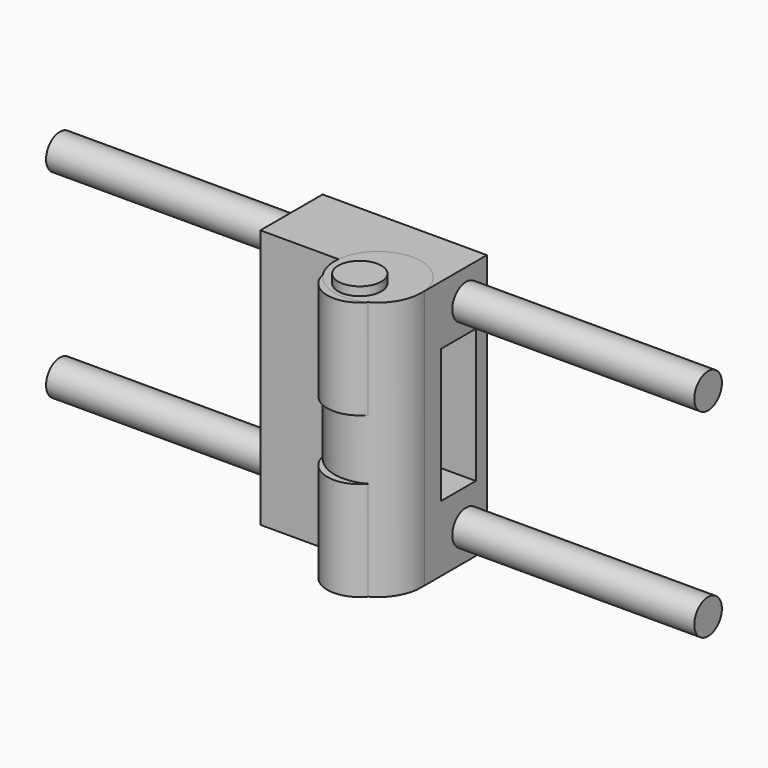
from build123d import *

# Parameters (mm, degrees)
F0_W      = 38
F0_H      = 18
F1_DEPTH  = 60
F2_R      = 4
F3_DEPTH  = 75
F9_W      = 10
F9_H      = 31
F10_DEPTH = 25
F12_R     = 7.5
F13_DEPTH = 23
F18_R     = 5
F19_DEPTH = 62
F22_R     = 10
F23_DEPTH = 60


with BuildPart() as f1:
    # F0 (on Top) → F1 (new body)
    with BuildSketch(Plane.XY):
        Rectangle(F0_W, F0_H)
    extrude(amount=F1_DEPTH)


with BuildPart() as f3:
    # F2 (on Right) → F3 (new body, symmetric)
    with BuildSketch(Plane.YZ):
        Circle(F2_R)
    extrude(amount=F3_DEPTH, both=True)


with BuildPart() as f3_1:
    # F4: moved
    add(f3.part.moved(Location((0, 3, 7))))


with BuildPart() as f5_1:
    # F5: copy of F3
    add(f3_1.part)


with BuildPart() as f5_1_1:
    # F6: moved
    add(f5_1.part.moved(Location((0, 0, 46))))


with BuildPart() as f7_1:
    # F7: copy of F3
    add(f3_1.part)


with BuildPart() as f7_2:
    # F7: copy of F5_1
    add(f5_1_1.part)


with BuildPart() as f1_1:
    add(f1.part)

    # F8: cut F7_1, F7_2
    add(f7_1.part, mode=Mode.SUBTRACT)
    add(f7_2.part, mode=Mode.SUBTRACT)


with BuildPart() as f10:
    # F9 (on Right) → F10 (new body, symmetric)
    with BuildSketch(Plane.YZ):
        with Locations((0.8, 30.783593908)):
            Rectangle(F9_W, F9_H)
    extrude(amount=F10_DEPTH, both=True)


with BuildPart() as f1_2:
    add(f1_1.part)

    # F11: cut F10
    add(f10.part, mode=Mode.SUBTRACT)


with BuildPart() as f13:
    # F12 (on Top) → F13 (new body)
    with BuildSketch(Plane.XY):
        Circle(F12_R)
    extrude(amount=F13_DEPTH)


with BuildPart() as f13_1:
    # F14: moved
    add(f13.part.moved(Location((8, -16, 0))))


with BuildPart() as f13_2:
    # F15: moved
    add(f13_1.part.moved(Location((0, 2, 0))))


with BuildPart() as f16_1:
    # F16: copy of F13
    add(f13_2.part)


with BuildPart() as f16_1_1:
    # F17: moved
    add(f16_1.part.moved(Location((0, 0, 37))))


with BuildPart() as f19:
    # F18 (on Top) → F19 (new body)
    with BuildSketch(Plane.XY):
        Circle(F18_R)
    extrude(amount=F19_DEPTH)


with BuildPart() as f19_1:
    # F20: moved
    add(f19.part.moved(Location((8, -14, 0))))


with BuildPart() as f21_1:
    # F21: copy of F13
    add(f13_2.part)


with BuildPart() as f21_2:
    # F21: copy of F16_1
    add(f16_1_1.part)


with BuildPart() as f21_3:
    # F21: copy of F19
    add(f19_1.part)


with BuildPart() as f23:
    # F22 (on Top) → F23 (new body)
    with BuildSketch(Plane.XY):
        Circle(F22_R)
    extrude(amount=F23_DEPTH)


with BuildPart() as f23_1:
    # F24: moved
    add(f23.part.moved(Location((9, -10, 0))))


solid = Compound([f3_1.part, f5_1_1.part, f1_2.part, f13_2.part, f16_1_1.part, f19_1.part, f21_1.part, f21_2.part, f21_3.part, f23_1.part])
